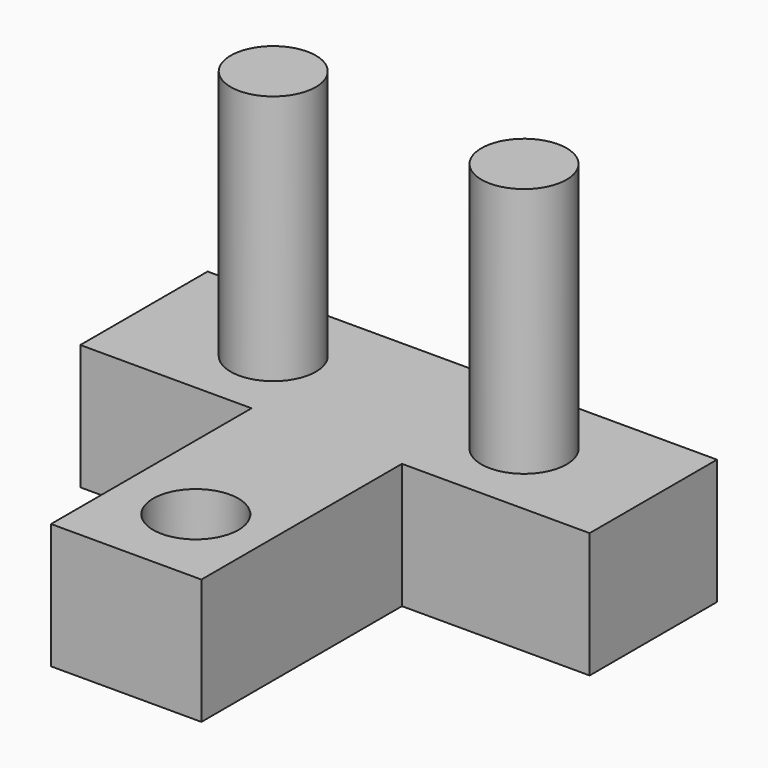
from build123d import *

# Parameters (mm, degrees)
F0_R     = 1.7
F0_W     = 6
F0_H     = 10
F1_DEPTH = 5
F2_R     = 1.7
F3_DEPTH = 15
F4_R     = 1.7
F5_DEPTH = 15


with BuildPart() as f1:
    # F0 (on Top) → F1 (new body)
    with BuildSketch(Plane.XY):
        Polygon((-13.330769, 18.122626), (-13.330769, 24.472626), (-33.650769, 24.472626), (-33.650769, 18.122626), (-26.818978, 18.122626), (-20.818978, 18.122626), align=None)
        with Locations((-28.492769, 21.297626)):
            Circle(F0_R, mode=Mode.SUBTRACT)
        with BuildLine():
            ThreePointArc((-16.788769, 21.297626), (-18.488769, 19.597626), (-20.188769, 21.297626))
            ThreePointArc((-20.188769, 21.297626), (-18.488769, 22.997626), (-16.788769, 21.297626))
        make_face(mode=Mode.SUBTRACT)
        with Locations((-23.818978, 13.122626)):
            Rectangle(F0_W, F0_H)
        with Locations((-23.708439, 11.454114)):
            Circle(F0_R, mode=Mode.SUBTRACT)
    extrude(amount=F1_DEPTH)


with BuildPart() as f3:
    # F2 (on face) → F3 (new body)
    with BuildSketch(Plane(origin=(0, 0, 0), x_dir=(1, 0, 0), z_dir=(0, 0, -1))):
        with Locations((-28.492769, -21.297626)):
            Circle(F2_R)
    extrude(amount=-F3_DEPTH)


with BuildPart() as f5:
    # F4 (on face) → F5 (new body)
    with BuildSketch(Plane(origin=(0, 0, 0), x_dir=(1, 0, 0), z_dir=(0, 0, -1))):
        with Locations((-18.488769, -21.297626)):
            Circle(F4_R)
    extrude(amount=-F5_DEPTH)


solid = Compound([f1.part, f3.part, f5.part])
